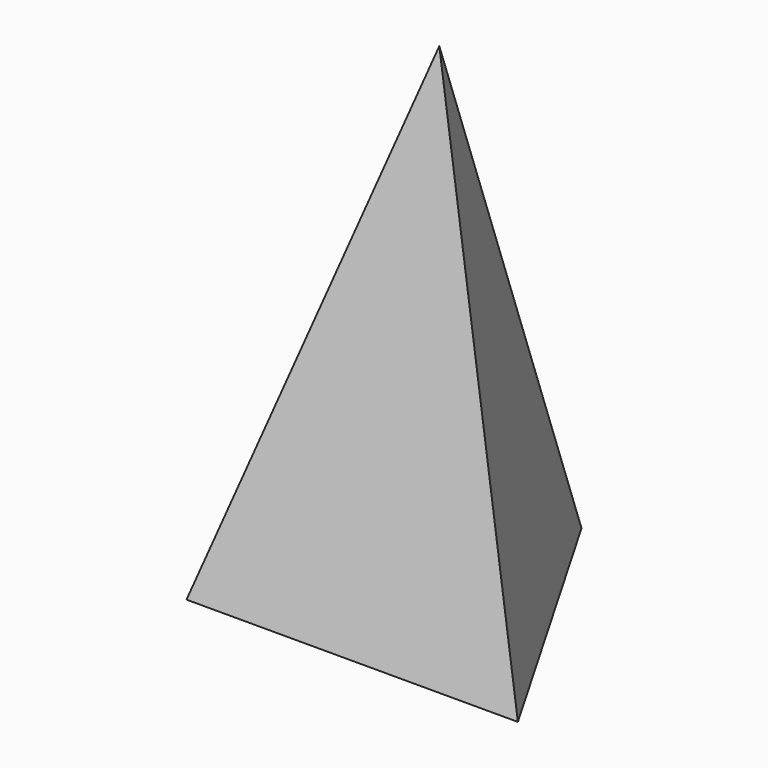
from build123d import *


with BuildPart() as f3:
    # F0 (on Top) → F3 section 0
    with BuildSketch(Plane.XY, mode=Mode.PRIVATE) as f3_s0:
        Polygon((-0.032433, 54.562806), (-50.783776, -33.45345), (50.816209, -33.397274), align=None)
    loft([f3_s0.sketch, Vertex(0, 0, 152.4)])


solid = f3.part
